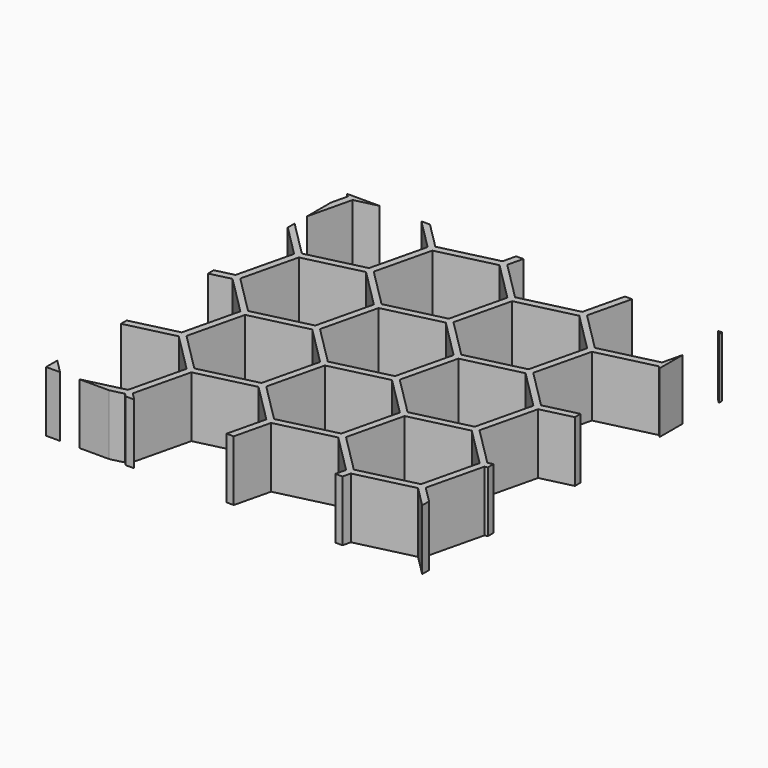
from build123d import *

# Parameters (mm, degrees)
SKETCH120_W                                   = 31
SKETCH120_H                                   = 31
EXTRUDE109_DEPTH                              = 5
OBJ1                      = 56.791651
OBJ2                      = 81.381905
EXTRUDE084_DEPTH                              = 5
OBJ3 = 45


with BuildPart() as extrude109:
    # Sketch120 → Extrude109 (new body)
    with BuildSketch(Plane(origin=(0, 0, -25), x_dir=(1, 0, 0), z_dir=(0, 0, -1))):
        with Locations((32, -51)):
            Rectangle(SKETCH120_W, SKETCH120_H)
    extrude(amount=EXTRUDE109_DEPTH)


with BuildPart() as common004:
    with BuildSketch(Plane.XY):
        with Locations((23.815698, 35.440953)):
            Rectangle(OBJ1, OBJ2)
        Polygon((0, 4.783494), (-4.080127, 2.283494), (-4.080127, -2.283494), (0, -4.783494), (4.080127, -2.283494), (4.080127, 2.283494), align=None, mode=Mode.SUBTRACT)
        Polygon((8.660254, 4.783494), (4.580127, 2.283494), (4.580127, -2.283494), (8.660254, -4.783494), (12.740381, -2.283494), (12.740381, 2.283494), align=None, mode=Mode.SUBTRACT)
        Polygon((17.320508, 4.783494), (13.240381, 2.283494), (13.240381, -2.283494), (17.320508, -4.783494), (21.400635, -2.283494), (21.400635, 2.283494), align=None, mode=Mode.SUBTRACT)
        Polygon((25.980762, 4.783494), (21.900635, 2.283494), (21.900635, -2.283494), (25.980762, -4.783494), (30.060889, -2.283494), (30.060889, 2.283494), align=None, mode=Mode.SUBTRACT)
        Polygon((34.641016, 4.783494), (30.560889, 2.283494), (30.560889, -2.283494), (34.641016, -4.783494), (38.721143, -2.283494), (38.721143, 2.283494), align=None, mode=Mode.SUBTRACT)
        Polygon((43.30127, 4.783494), (39.221143, 2.283494), (39.221143, -2.283494), (43.30127, -4.783494), (47.381397, -2.283494), (47.381397, 2.283494), align=None, mode=Mode.SUBTRACT)
        Polygon((4.330127, 12.371684), (0.25, 9.871684), (0.25, 5.304697), (4.330127, 2.804697), (8.410254, 5.304697), (8.410254, 9.871684), align=None, mode=Mode.SUBTRACT)
        Polygon((12.990381, 12.371684), (8.910254, 9.871684), (8.910254, 5.304697), (12.990381, 2.804697), (17.070508, 5.304697), (17.070508, 9.871684), align=None, mode=Mode.SUBTRACT)
        Polygon((21.650635, 12.371684), (17.570508, 9.871684), (17.570508, 5.304697), (21.650635, 2.804697), (25.730762, 5.304697), (25.730762, 9.871684), align=None, mode=Mode.SUBTRACT)
        Polygon((30.310889, 12.371684), (26.230762, 9.871684), (26.230762, 5.304697), (30.310889, 2.804697), (34.391016, 5.304697), (34.391016, 9.871684), align=None, mode=Mode.SUBTRACT)
        Polygon((38.971143, 12.371684), (34.891016, 9.871684), (34.891016, 5.304697), (38.971143, 2.804697), (43.05127, 5.304697), (43.05127, 9.871684), align=None, mode=Mode.SUBTRACT)
        Polygon((47.631397, 12.371684), (43.55127, 9.871684), (43.55127, 5.304697), (47.631397, 2.804697), (51.711524, 5.304697), (51.711524, 9.871684), align=None, mode=Mode.SUBTRACT)
        Polygon((0, 19.959875), (-4.080127, 17.459875), (-4.080127, 12.892887), (0, 10.392887), (4.080127, 12.892887), (4.080127, 17.459875), align=None, mode=Mode.SUBTRACT)
        Polygon((8.660254, 19.959875), (4.580127, 17.459875), (4.580127, 12.892887), (8.660254, 10.392887), (12.740381, 12.892887), (12.740381, 17.459875), align=None, mode=Mode.SUBTRACT)
        Polygon((17.320508, 19.959875), (13.240381, 17.459875), (13.240381, 12.892887), (17.320508, 10.392887), (21.400635, 12.892887), (21.400635, 17.459875), align=None, mode=Mode.SUBTRACT)
        Polygon((25.980762, 19.959875), (21.900635, 17.459875), (21.900635, 12.892887), (25.980762, 10.392887), (30.060889, 12.892887), (30.060889, 17.459875), align=None, mode=Mode.SUBTRACT)
        Polygon((34.641016, 19.959875), (30.560889, 17.459875), (30.560889, 12.892887), (34.641016, 10.392887), (38.721143, 12.892887), (38.721143, 17.459875), align=None, mode=Mode.SUBTRACT)
        Polygon((43.30127, 19.959875), (39.221143, 17.459875), (39.221143, 12.892887), (43.30127, 10.392887), (47.381397, 12.892887), (47.381397, 17.459875), align=None, mode=Mode.SUBTRACT)
        Polygon((4.330127, 27.548065), (0.25, 25.048065), (0.25, 20.481078), (4.330127, 17.981078), (8.410254, 20.481078), (8.410254, 25.048065), align=None, mode=Mode.SUBTRACT)
        Polygon((12.990381, 27.548065), (8.910254, 25.048065), (8.910254, 20.481078), (12.990381, 17.981078), (17.070508, 20.481078), (17.070508, 25.048065), align=None, mode=Mode.SUBTRACT)
        Polygon((21.650635, 27.548065), (17.570508, 25.048065), (17.570508, 20.481078), (21.650635, 17.981078), (25.730762, 20.481078), (25.730762, 25.048065), align=None, mode=Mode.SUBTRACT)
        Polygon((30.310889, 27.548065), (26.230762, 25.048065), (26.230762, 20.481078), (30.310889, 17.981078), (34.391016, 20.481078), (34.391016, 25.048065), align=None, mode=Mode.SUBTRACT)
        Polygon((38.971143, 27.548065), (34.891016, 25.048065), (34.891016, 20.481078), (38.971143, 17.981078), (43.05127, 20.481078), (43.05127, 25.048065), align=None, mode=Mode.SUBTRACT)
        Polygon((47.631397, 27.548065), (43.55127, 25.048065), (43.55127, 20.481078), (47.631397, 17.981078), (51.711524, 20.481078), (51.711524, 25.048065), align=None, mode=Mode.SUBTRACT)
        Polygon((0, 35.136255), (-4.080127, 32.636255), (-4.080127, 28.069268), (0, 25.569268), (4.080127, 28.069268), (4.080127, 32.636255), align=None, mode=Mode.SUBTRACT)
        Polygon((8.660254, 35.136255), (4.580127, 32.636255), (4.580127, 28.069268), (8.660254, 25.569268), (12.740381, 28.069268), (12.740381, 32.636255), align=None, mode=Mode.SUBTRACT)
        Polygon((17.320508, 35.136255), (13.240381, 32.636255), (13.240381, 28.069268), (17.320508, 25.569268), (21.400635, 28.069268), (21.400635, 32.636255), align=None, mode=Mode.SUBTRACT)
        Polygon((25.980762, 35.136255), (21.900635, 32.636255), (21.900635, 28.069268), (25.980762, 25.569268), (30.060889, 28.069268), (30.060889, 32.636255), align=None, mode=Mode.SUBTRACT)
        Polygon((34.641016, 35.136255), (30.560889, 32.636255), (30.560889, 28.069268), (34.641016, 25.569268), (38.721143, 28.069268), (38.721143, 32.636255), align=None, mode=Mode.SUBTRACT)
        Polygon((43.30127, 35.136255), (39.221143, 32.636255), (39.221143, 28.069268), (43.30127, 25.569268), (47.381397, 28.069268), (47.381397, 32.636255), align=None, mode=Mode.SUBTRACT)
        Polygon((4.330127, 42.724446), (0.25, 40.224446), (0.25, 35.657459), (4.330127, 33.157459), (8.410254, 35.657459), (8.410254, 40.224446), align=None, mode=Mode.SUBTRACT)
        Polygon((12.990381, 42.724446), (8.910254, 40.224446), (8.910254, 35.657459), (12.990381, 33.157459), (17.070508, 35.657459), (17.070508, 40.224446), align=None, mode=Mode.SUBTRACT)
        Polygon((21.650635, 42.724446), (17.570508, 40.224446), (17.570508, 35.657459), (21.650635, 33.157459), (25.730762, 35.657459), (25.730762, 40.224446), align=None, mode=Mode.SUBTRACT)
        Polygon((30.310889, 42.724446), (26.230762, 40.224446), (26.230762, 35.657459), (30.310889, 33.157459), (34.391016, 35.657459), (34.391016, 40.224446), align=None, mode=Mode.SUBTRACT)
        Polygon((38.971143, 42.724446), (34.891016, 40.224446), (34.891016, 35.657459), (38.971143, 33.157459), (43.05127, 35.657459), (43.05127, 40.224446), align=None, mode=Mode.SUBTRACT)
        Polygon((47.631397, 42.724446), (43.55127, 40.224446), (43.55127, 35.657459), (47.631397, 33.157459), (51.711524, 35.657459), (51.711524, 40.224446), align=None, mode=Mode.SUBTRACT)
        Polygon((0, 50.312636), (-4.080127, 47.812636), (-4.080127, 43.245649), (0, 40.745649), (4.080127, 43.245649), (4.080127, 47.812636), align=None, mode=Mode.SUBTRACT)
        Polygon((8.660254, 50.312636), (4.580127, 47.812636), (4.580127, 43.245649), (8.660254, 40.745649), (12.740381, 43.245649), (12.740381, 47.812636), align=None, mode=Mode.SUBTRACT)
        Polygon((17.320508, 50.312636), (13.240381, 47.812636), (13.240381, 43.245649), (17.320508, 40.745649), (21.400635, 43.245649), (21.400635, 47.812636), align=None, mode=Mode.SUBTRACT)
        Polygon((25.980762, 50.312636), (21.900635, 47.812636), (21.900635, 43.245649), (25.980762, 40.745649), (30.060889, 43.245649), (30.060889, 47.812636), align=None, mode=Mode.SUBTRACT)
        Polygon((34.641016, 50.312636), (30.560889, 47.812636), (30.560889, 43.245649), (34.641016, 40.745649), (38.721143, 43.245649), (38.721143, 47.812636), align=None, mode=Mode.SUBTRACT)
        Polygon((43.30127, 50.312636), (39.221143, 47.812636), (39.221143, 43.245649), (43.30127, 40.745649), (47.381397, 43.245649), (47.381397, 47.812636), align=None, mode=Mode.SUBTRACT)
        Polygon((4.330127, 57.900827), (0.25, 55.400827), (0.25, 50.83384), (4.330127, 48.33384), (8.410254, 50.83384), (8.410254, 55.400827), align=None, mode=Mode.SUBTRACT)
        Polygon((12.990381, 57.900827), (8.910254, 55.400827), (8.910254, 50.83384), (12.990381, 48.33384), (17.070508, 50.83384), (17.070508, 55.400827), align=None, mode=Mode.SUBTRACT)
        Polygon((21.650635, 57.900827), (17.570508, 55.400827), (17.570508, 50.83384), (21.650635, 48.33384), (25.730762, 50.83384), (25.730762, 55.400827), align=None, mode=Mode.SUBTRACT)
        Polygon((30.310889, 57.900827), (26.230762, 55.400827), (26.230762, 50.83384), (30.310889, 48.33384), (34.391016, 50.83384), (34.391016, 55.400827), align=None, mode=Mode.SUBTRACT)
        Polygon((38.971143, 57.900827), (34.891016, 55.400827), (34.891016, 50.83384), (38.971143, 48.33384), (43.05127, 50.83384), (43.05127, 55.400827), align=None, mode=Mode.SUBTRACT)
        Polygon((47.631397, 57.900827), (43.55127, 55.400827), (43.55127, 50.83384), (47.631397, 48.33384), (51.711524, 50.83384), (51.711524, 55.400827), align=None, mode=Mode.SUBTRACT)
        Polygon((0, 65.489017), (-4.080127, 62.989017), (-4.080127, 58.42203), (0, 55.92203), (4.080127, 58.42203), (4.080127, 62.989017), align=None, mode=Mode.SUBTRACT)
        Polygon((8.660254, 65.489017), (4.580127, 62.989017), (4.580127, 58.42203), (8.660254, 55.92203), (12.740381, 58.42203), (12.740381, 62.989017), align=None, mode=Mode.SUBTRACT)
        Polygon((17.320508, 65.489017), (13.240381, 62.989017), (13.240381, 58.42203), (17.320508, 55.92203), (21.400635, 58.42203), (21.400635, 62.989017), align=None, mode=Mode.SUBTRACT)
        Polygon((25.980762, 65.489017), (21.900635, 62.989017), (21.900635, 58.42203), (25.980762, 55.92203), (30.060889, 58.42203), (30.060889, 62.989017), align=None, mode=Mode.SUBTRACT)
        Polygon((34.641016, 65.489017), (30.560889, 62.989017), (30.560889, 58.42203), (34.641016, 55.92203), (38.721143, 58.42203), (38.721143, 62.989017), align=None, mode=Mode.SUBTRACT)
        Polygon((43.30127, 65.489017), (39.221143, 62.989017), (39.221143, 58.42203), (43.30127, 55.92203), (47.381397, 58.42203), (47.381397, 62.989017), align=None, mode=Mode.SUBTRACT)
        Polygon((4.330127, 73.077208), (0.25, 70.577208), (0.25, 66.01022), (4.330127, 63.51022), (8.410254, 66.01022), (8.410254, 70.577208), align=None, mode=Mode.SUBTRACT)
        Polygon((12.990381, 73.077208), (8.910254, 70.577208), (8.910254, 66.01022), (12.990381, 63.51022), (17.070508, 66.01022), (17.070508, 70.577208), align=None, mode=Mode.SUBTRACT)
        Polygon((21.650635, 73.077208), (17.570508, 70.577208), (17.570508, 66.01022), (21.650635, 63.51022), (25.730762, 66.01022), (25.730762, 70.577208), align=None, mode=Mode.SUBTRACT)
        Polygon((30.310889, 73.077208), (26.230762, 70.577208), (26.230762, 66.01022), (30.310889, 63.51022), (34.391016, 66.01022), (34.391016, 70.577208), align=None, mode=Mode.SUBTRACT)
        Polygon((38.971143, 73.077208), (34.891016, 70.577208), (34.891016, 66.01022), (38.971143, 63.51022), (43.05127, 66.01022), (43.05127, 70.577208), align=None, mode=Mode.SUBTRACT)
        Polygon((47.631397, 73.077208), (43.55127, 70.577208), (43.55127, 66.01022), (47.631397, 63.51022), (51.711524, 66.01022), (51.711524, 70.577208), align=None, mode=Mode.SUBTRACT)
    extrude(amount=-EXTRUDE084_DEPTH)


with BuildPart() as common004_1:
    add(common004.part.moved(Location((43, 9.8, -25))).rotate(Axis((43, 9.8, -25), (0, 0, 1)), OBJ3))

    # Common004: intersect Extrude109
    add(extrude109.part, mode=Mode.INTERSECT)


solid = common004_1.part
